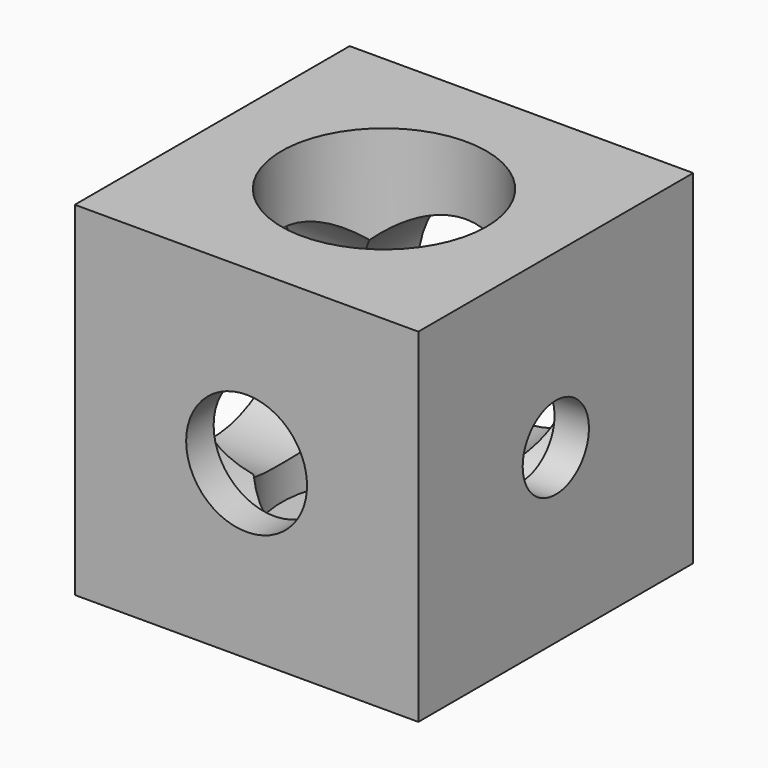
from build123d import *

# Parameters (mm, degrees)
SKETCH088_W     = 20
SKETCH088_H     = 20
PAD025_DEPTH    = 10
SKETCH089_R     = 5.966215
POCKET060_DEPTH = 18
SKETCH090_R     = 2.581292
POCKET061_DEPTH = 2
SKETCH091_R     = 6.020554
POCKET062_DEPTH = 18
SKETCH092_R     = 3.518198
POCKET063_DEPTH = 2
SKETCH093_R     = 6.023017
POCKET064_DEPTH = 18
SKETCH094_R     = 2.40921
POCKET065_DEPTH = 2


with BuildPart() as part:
    # Sketch088 → Pad025 (new body, symmetric)
    with BuildSketch(Plane(origin=(451.8, 451.8, 451.8), x_dir=(1, 0, 0), z_dir=(0, 0, -1))):
        Rectangle(SKETCH088_W, SKETCH088_H)
    extrude(amount=PAD025_DEPTH, both=True)

    # Sketch089 → Pocket060 (cut)
    with BuildSketch(Plane(origin=(451.8, 451.8, 461.8), x_dir=(1, 0, 0), z_dir=(0, 0, 1))):
        Circle(SKETCH089_R)
    extrude(amount=-POCKET060_DEPTH, mode=Mode.SUBTRACT)

    # Sketch090 → Pocket061 (cut)
    with BuildSketch(Plane(origin=(451.8, 451.8, 441.8), x_dir=(1, 0, 0), z_dir=(0, 0, -1))):
        Circle(SKETCH090_R)
    extrude(amount=-POCKET061_DEPTH, mode=Mode.SUBTRACT)

    # Sketch091 → Pocket062 (cut)
    with BuildSketch(Plane(origin=(451.8, 461.8, 451.8), x_dir=(1, 0, 0), z_dir=(0, 1, 0))):
        Circle(SKETCH091_R)
    extrude(amount=-POCKET062_DEPTH, mode=Mode.SUBTRACT)

    # Sketch092 → Pocket063 (cut)
    with BuildSketch(Plane(origin=(451.8, 441.8, 451.8), x_dir=(-1, 0, 0), z_dir=(0, -1, 0))):
        Circle(SKETCH092_R)
    extrude(amount=-POCKET063_DEPTH, mode=Mode.SUBTRACT)

    # Sketch093 → Pocket064 (cut)
    with BuildSketch(Plane(origin=(441.8, 451.8, 451.8), x_dir=(0, 1, 0), z_dir=(-1, 0, 0))):
        Circle(SKETCH093_R)
    extrude(amount=-POCKET064_DEPTH, mode=Mode.SUBTRACT)

    # Sketch094 → Pocket065 (cut)
    with BuildSketch(Plane(origin=(461.8, 451.8, 451.8), x_dir=(0, -1, 0), z_dir=(1, 0, 0))):
        Circle(SKETCH094_R)
    extrude(amount=-POCKET065_DEPTH, mode=Mode.SUBTRACT)


solid = part.part
